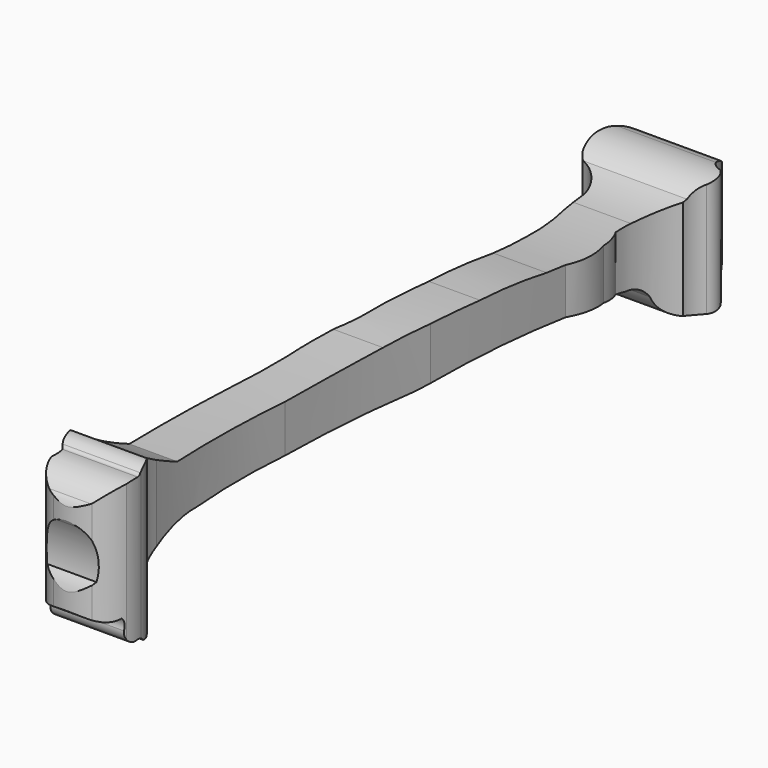
from build123d import *

# Parameters (mm, degrees)
F3_DEPTH = 35.56
F4_START = 25.4
F4_DEPTH = 50.8


with BuildPart() as f3:
    # F1 (on Top) → F3 (new body)
    with BuildSketch(Plane.XY):
        with BuildLine():
            ThreePointArc((3.1606343109, 66.01665169), (-0.1782774925, 66.6508923373), (-3.517189296, 66.01665169))
            ThreePointArc((-3.517189296, 66.01665169), (-7.1938123208, 63.9652260133), (-9.4606811181, 60.4173801839))
            ThreePointArc((-9.4606811181, 60.4173801839), (-9.7639323439, 58.037398383), (-9.4606811181, 55.6574165821))
            ThreePointArc((-9.4606811181, 55.6574165821), (-9.1059116576, 54.8918070674), (-8.5225803778, 54.2820990086))
            ThreePointArc((-8.5225803778, 54.2820990086), (-5.6043492755, 52.3194624029), (-4.0889079683, 49.1459071636))
            ThreePointArc((-4.0889079683, 49.1459071636), (-4.0164175574, 46.9351312251), (-3.7446904462, 44.739920646))
            ThreePointArc((-3.7446904462, 44.739920646), (-2.981620939, 40.2655025304), (-2.6673998218, 35.7373729348))
            ThreePointArc((-2.6673998218, 35.7373729348), (-2.4308329131, 29.7662331353), (-2.3837839253, 23.7905941904))
            ThreePointArc((-2.3837839253, 23.7905941904), (-2.4761639331, 18.3862033917), (-2.6673998218, 12.9844071344))
            ThreePointArc((-2.6673998218, 12.9844071344), (-2.8807507745, 8.2587521277), (-2.96268682, 3.5289931111))
            ThreePointArc((-2.96268682, 3.5289931111), (-3.2308233819, 1.1352509739), (-3.7446904462, -1.2180104386))
            ThreePointArc((-3.7446904462, -1.2180104386), (-4.073069743, -5.6985128088), (-4.0889079683, -10.1910047233))
            ThreePointArc((-4.0889079683, -10.1910047233), (-4.2284710441, -15.6363995577), (-4.5450213365, -21.0743770003))
            ThreePointArc((-4.5450213365, -21.0743770003), (-4.6887188598, -34.1741615005), (-3.7086922675, -47.2380258143))
            ThreePointArc((-3.7086922675, -47.2380258143), (-3.2684760875, -52.0192897118), (-2.3214844987, -56.7264631391))
            ThreePointArc((-2.3214844987, -56.7264631391), (-2.0228966387, -57.5407263727), (-1.4836535556, -58.2199878991))
            ThreePointArc((-1.4836535556, -58.2199878991), (-1.2641512868, -59.3128111213), (-1.4836535556, -60.4056343436))
            ThreePointArc((-1.4836535556, -60.4056343436), (-0.403687944, -62.8880869496), (1.9040978514, -64.30336833))
            ThreePointArc((1.9040978514, -64.30336833), (4.8571763751, -64.6032545116), (7.732488215, -63.8662427664))
            ThreePointArc((7.732488215, -63.8662427664), (9.3441994523, -62.3414996001), (10.4281185195, -60.4056343436))
            ThreePointArc((10.4281185195, -60.4056343436), (10.5740359431, -58.9667502791), (10.4281185195, -57.5278662145))
            ThreePointArc((10.4281185195, -57.5278662145), (9.7527652003, -55.6223817726), (8.4610367194, -54.0672577918))
            ThreePointArc((8.4610367194, -54.0672577918), (7.3465164535, -53.6757369191), (6.1661079526, -53.6301322281))
            ThreePointArc((6.1661079526, -53.6301322281), (4.6661581709, -50.1283534402), (3.980461508, -46.3810712099))
            ThreePointArc((3.980461508, -46.3810712099), (2.8026700611, -33.0715847956), (3.1878047157, -19.7156388313))
            ThreePointArc((3.1878047157, -19.7156388313), (3.7571375112, -6.4006425511), (5.0686714239, 6.8618287332))
            ThreePointArc((5.0686714239, 6.8618287332), (5.7765716587, 19.6530781961), (6.1661079526, 32.4579775333))
            ThreePointArc((6.1661079526, 32.4579775333), (6.7666375457, 36.2197104841), (6.1661079526, 39.981443435))
            ThreePointArc((6.1661079526, 39.981443435), (5.8361109856, 41.965649229), (5.0686714239, 43.8249520957))
            ThreePointArc((5.0686714239, 43.8249520957), (5.6949279082, 48.9640047811), (8.0371722579, 53.5809248686))
            ThreePointArc((8.0371722579, 53.5809248686), (8.3962709686, 55.2501622278), (9.2757055536, 56.7136853933))
            ThreePointArc((9.2757055536, 56.7136853933), (9.6871519017, 58.5009751565), (8.7292939425, 60.0650086999))
            ThreePointArc((8.7292939425, 60.0650086999), (7.558691433, 60.7061324625), (6.762212608, 61.777099967))
            ThreePointArc((6.762212608, 61.777099967), (5.5543200648, 64.400552558), (3.1606343109, 66.01665169))
        make_face()
    extrude(amount=-F3_DEPTH)

    # F2 (on Right) → F4 (intersect)
    with BuildSketch(Plane.YZ.offset(F4_START)):
        with BuildLine():
            ThreePointArc((54.2291924357, -27.1875206381), (59.1222097701, -27.3727233175), (63.4849444032, -25.1495577395))
            ThreePointArc((63.4849444032, -25.1495577395), (65.9395982334, -21.1436430714), (65.9899413586, -16.4457559586))
            ThreePointArc((65.9899413586, -16.4457559586), (65.40913015, -15.0343793033), (65.5653625727, -13.5161839426))
            ThreePointArc((65.5653625727, -13.5161839426), (64.3565239105, -10.6239117823), (61.616808176, -9.1005973518))
            ThreePointArc((61.616808176, -9.1005973518), (57.7195187929, -9.1074218165), (54.2291924357, -10.8413575217))
            ThreePointArc((54.2291924357, -10.8413575217), (50.5134592791, -11.7378881041), (46.7142052948, -12.1575416997))
            ThreePointArc((46.7142052948, -12.1575416997), (37.7362681939, -12.1839623399), (28.7852939218, -11.4881806076))
            ThreePointArc((28.7852939218, -11.4881806076), (22.4650273344, -10.6639768376), (16.099056229, -10.3485509753))
            ThreePointArc((16.099056229, -10.3485509753), (7.3379297974, -10.0798880986), (-1.4231966343, -10.3485509753))
            ThreePointArc((-1.4231966343, -10.3485509753), (-21.4245681418, -10.8182060481), (-41.4259396493, -10.3485509753))
            ThreePointArc((-41.4259396493, -10.3485509753), (-48.4900873488, -6.7141662275), (-55.1168844104, -2.3327856325))
            ThreePointArc((-55.1168844104, -2.3327856325), (-56.464205029, -2.3890591075), (-57.6631054282, -3.0063737649))
            ThreePointArc((-57.6631054282, -3.0063737649), (-57.9341460354, -3.2594743436), (-58.2992509007, -3.3244462684))
            ThreePointArc((-58.2992509007, -3.3244462684), (-61.4311065127, -3.8205245522), (-63.9291256666, -5.7736025192))
            ThreePointArc((-63.9291256666, -5.7736025192), (-64.7726183935, -7.5039442128), (-64.4380375743, -9.3996282667))
            ThreePointArc((-64.4380375743, -9.3996282667), (-63.4522297998, -12.9916593473), (-63.5474398732, -16.7152918875))
            ThreePointArc((-63.5474398732, -16.7152918875), (-64.6437804111, -18.9186226683), (-64.8518428206, -21.3708337396))
            ThreePointArc((-64.8518428206, -21.3708337396), (-63.0550454186, -22.3813241255), (-61.0028579831, -22.1861358732))
            ThreePointArc((-61.0028579831, -22.1861358732), (-60.6550334905, -23.0616817585), (-60.7484020293, -23.9991489798))
            ThreePointArc((-60.7484020293, -23.9991489798), (-60.2497427059, -25.5156836237), (-58.7763562799, -26.13023296))
            ThreePointArc((-58.7763562799, -26.13023296), (-57.7253263345, -26.2434595695), (-56.8679235876, -26.8617998809))
            ThreePointArc((-56.8679235876, -26.8617998809), (-55.677995188, -27.1638106914), (-54.4505678117, -27.1875206381))
            ThreePointArc((-54.4505678117, -27.1875206381), (-50.2932172625, -22.3342522357), (-44.5903241634, -19.4507148117))
            ThreePointArc((-44.5903241634, -19.4507148117), (-40.8388921002, -18.6564645109), (-37.0049998164, -18.5833480209))
            ThreePointArc((-37.0049998164, -18.5833480209), (-16.3145128172, -18.3635215769), (4.375974182, -18.5833480209))
            ThreePointArc((4.375974182, -18.5833480209), (25.1743097537, -18.5473726006), (45.7801371813, -21.3708337396))
            ThreePointArc((45.7801371813, -21.3708337396), (47.9627026928, -21.8798635719), (49.6013201773, -23.4087966383))
            ThreePointArc((49.6013201773, -23.4087966383), (51.4186595185, -25.9063497892), (54.2291924357, -27.1875206381))
        make_face()
    extrude(amount=-F4_DEPTH, mode=Mode.INTERSECT)


solid = f3.part
